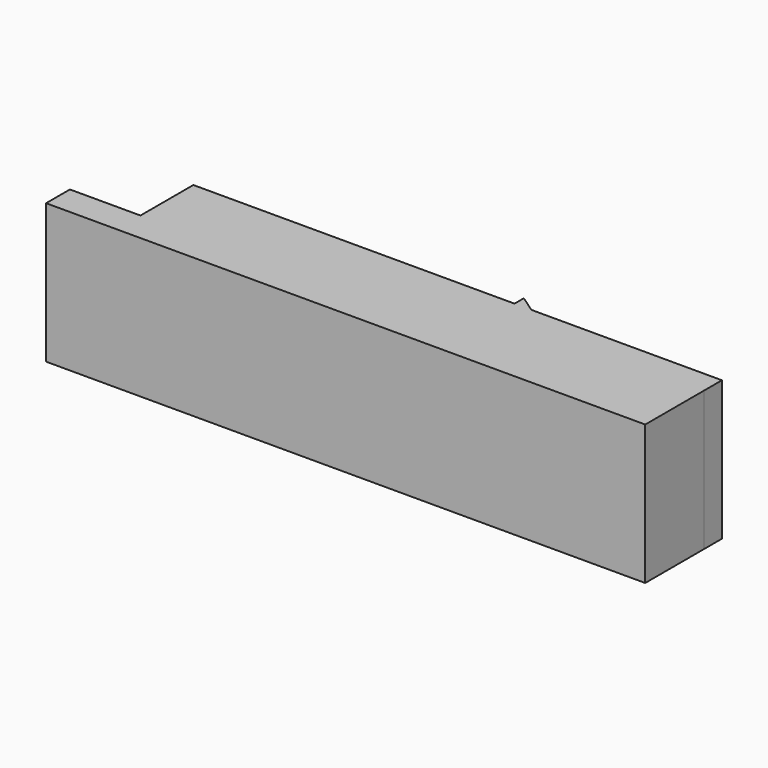
from build123d import *

# Parameters (mm, degrees)
F0_W     = 9.444609
F0_H     = 13.117496
F1_DEPTH = 25


with BuildPart() as f1:
    # F0 (on Top) → F1 (new body)
    with BuildSketch(Plane.XY):
        with Locations((48.95623, -10.61799)):
            Rectangle(F0_W, F0_H)
        Polygon((19.53455, 0), (44.233926, -17.176738), (44.233926, -4.059242), (53.678535, -4.059242), (49.502895, 0), align=None)
        Polygon((-53.678535, -17.176738), (44.233926, -17.176738), (19.53455, 0), (16.513675, 0), (11.002047, 0), (-24.868423, 0), (-41.03421, 0), (-41.03421, -11.840364), (-53.678535, -11.840364), align=None)
        Polygon((49.502895, 0), (53.678535, -4.059242), (53.678535, 0), align=None)
        Polygon((16.513675, 0), (19.53455, 0), (16.513675, 2.100813), align=None)
    extrude(amount=F1_DEPTH)


solid = f1.part
